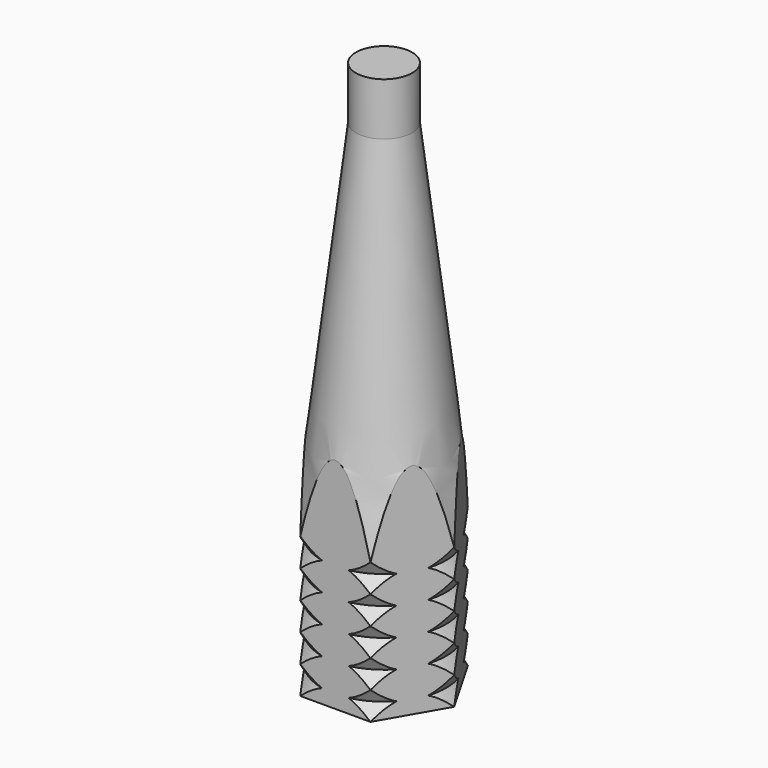
from build123d import *

# Parameters (mm, degrees)
F1_DEPTH = 20
F4_DEPTH = 25
F7_DEPTH = 1


with BuildPart() as f1:
    # F0 (on Top) → F1 (new body)
    with BuildSketch(Plane.XY):
        Polygon((10, 0), (5, 8.6602540378), (-5, 8.6602540378), (-10, 0), (-5, -8.6602540378), (5, -8.6602540378), align=None)
    extrude(amount=F1_DEPTH)

    # F2 (on Right) → F3 (revolve)
    with BuildSketch(Plane.YZ):
        Polygon((-4, 76.5), (-4, 70), (-10, 20), (0, 20), (0, 70), (0, 76.5), align=None)
    revolve(axis=Axis((0, 0, 45), (0, 0, 1)))

    # F4 (cut): faces of the model
    f4_faces = [f1.faces().sort_by_distance(p)[0] for p in [
        (-7.9668740123, 4.5996768556, 20),
        (0, 9.1993537112, 20),
        (-7.9668740123, -4.5996768556, 20),
        (0, -9.1993537112, 20),
        (7.9668740123, -4.5996768556, 20),
        (7.9668740123, 4.5996768556, 20),
    ]]
    extrude(f4_faces, amount=-F4_DEPTH, mode=Mode.SUBTRACT)

    # F5 (on Front) → F6 (revolve, cut)
    with BuildSketch(Plane.XZ):
        Polygon((-8.8642183308, 18), (-10, 20), (-10, 16), align=None)
        Polygon((-8.8642183308, 2), (-10, 4), (-10, 0), align=None)
        Polygon((-8.8642183308, 6), (-10, 8), (-10, 4), align=None)
        Polygon((-8.8642183308, 10), (-10, 12), (-10, 8), align=None)
        Polygon((-8.8642183308, 14), (-10, 16), (-10, 12), align=None)
    revolve(axis=Axis((0, 0, 5.5472087115), (0, 0, -1)), mode=Mode.SUBTRACT)

    # F7 (add): a face of the model
    f7_faces = [f1.faces().sort_by_distance(p)[0] for p in [
        (0, 0, 76.5),
    ]]
    extrude(f7_faces, amount=F7_DEPTH)


solid = f1.part
